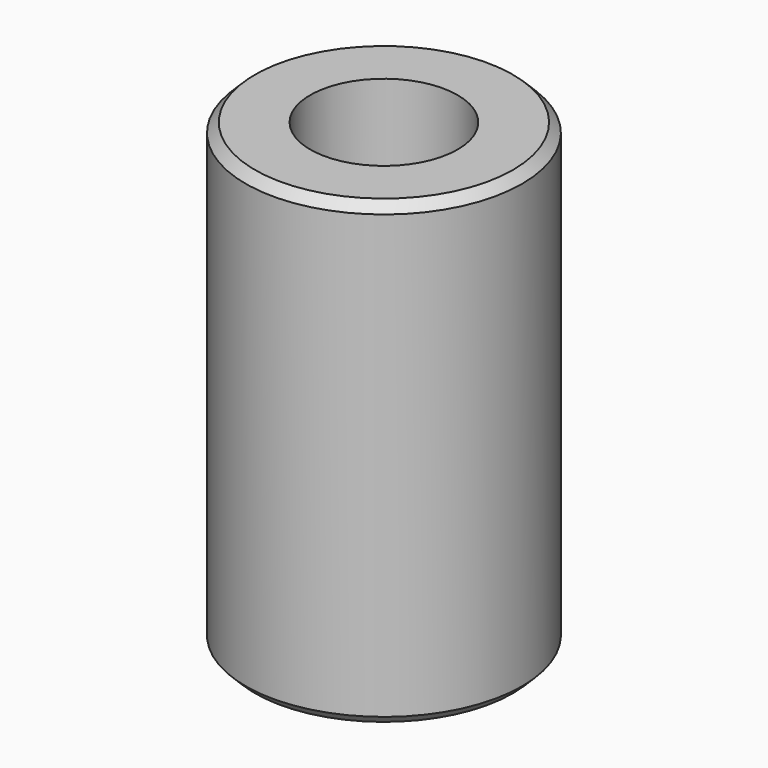
from build123d import *

# Parameters (mm, degrees)
F0_R     = 7.5
F0_R_2   = 4
F1_DEPTH = 25
F0_R_3   = 2.5
F2_DEPTH = 12.5
F3_DEPTH = 12.5
F4_SIZE  = 0.5


with BuildPart() as f1:
    # F0 (on Top) → F1 (new body)
    with BuildSketch(Plane.XY):
        Circle(F0_R)
        Circle(F0_R_2, mode=Mode.SUBTRACT)
    extrude(amount=F1_DEPTH)

    # F0 (on Top) → F2 (join)
    with BuildSketch(Plane.XY):
        Circle(F0_R_3)
        Circle(F0_R_2)
        Circle(F0_R_3, mode=Mode.SUBTRACT)
    extrude(amount=F2_DEPTH)

    # F0 (on Top) → F3 (cut)
    with BuildSketch(Plane.XY):
        Circle(F0_R_3)
    extrude(amount=F3_DEPTH, mode=Mode.SUBTRACT)

    # F4
    f4_edges = [f1.edges().sort_by_distance(p)[0] for p in [
        (-7.5, 0, 25),
        (-7.5, 0, 0),
    ]]
    chamfer(f4_edges, length=F4_SIZE)


solid = f1.part
